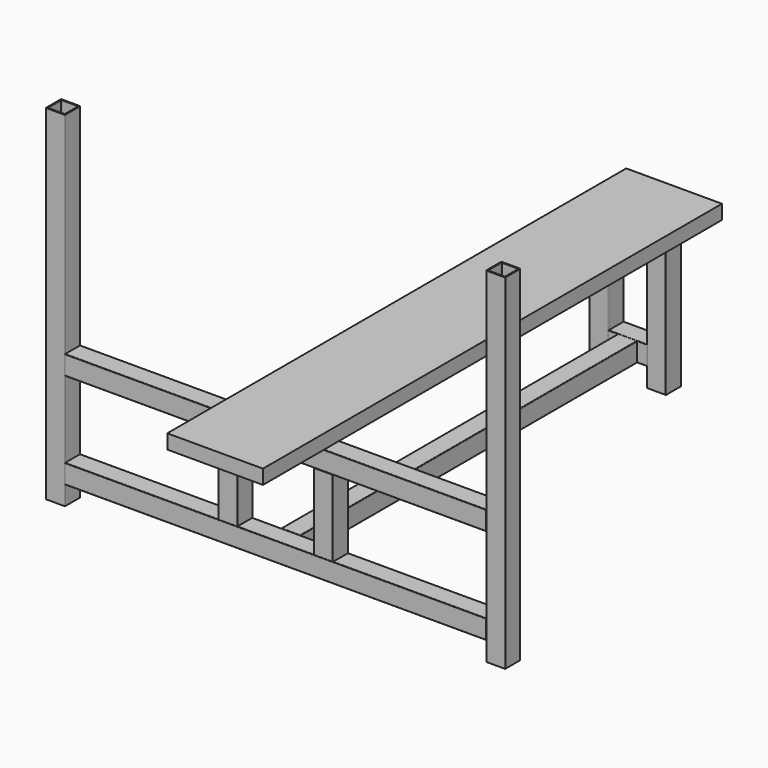
from build123d import *

# Parameters (mm, degrees)
F1_DEPTH       = 1117.6
F3_DEPTH       = 76.2
F4_DEPTH       = 25.4
F6_DEPTH       = 1117.6
F8_DEPTH       = 101.6
F10_DEPTH      = 355.6
F12_DEPTH      = 558.8
F14_DEPTH      = 558.8
F14_DEPTH_BACK = 355.6
F15_W          = 254
F15_H          = 1522.7317948151
F15_W_2        = 48.26
F15_H_2        = 1117.6
F16_DEPTH      = 38.1
F19_DEPTH      = 203.2


with BuildPart() as f1:
    # F0 (on Front) → F1 (new body)
    with BuildSketch(Plane.XZ):
        with BuildLine():
            Line((-24.13, -25.4), (24.13, -25.4))
            ThreePointArc((24.13, -25.4), (25.0280256121, -25.0280256121), (25.4, -24.13))
            Line((25.4, -24.13), (25.4, 24.13))
            ThreePointArc((25.4, 24.13), (25.0280256121, 25.0280256121), (24.13, 25.4))
            Line((24.13, 25.4), (-24.13, 25.4))
            ThreePointArc((-24.13, 25.4), (-25.0280256121, 25.0280256121), (-25.4, 24.13))
            Line((-25.4, 24.13), (-25.4, -24.13))
            ThreePointArc((-25.4, -24.13), (-25.0280256121, -25.0280256121), (-24.13, -25.4))
        make_face()
        with BuildLine():
            Line((-21.082, 22.352), (21.082, 22.352))
            ThreePointArc((21.082, 22.352), (21.9800256121, 21.9800256121), (22.352, 21.082))
            Line((22.352, 21.082), (22.352, -21.082))
            ThreePointArc((22.352, -21.082), (21.9800256121, -21.9800256121), (21.082, -22.352))
            Line((21.082, -22.352), (-21.082, -22.352))
            ThreePointArc((-21.082, -22.352), (-21.9800256121, -21.9800256121), (-22.352, -21.082))
            Line((-22.352, -21.082), (-22.352, 21.082))
            ThreePointArc((-22.352, 21.082), (-21.9800256121, 21.9800256121), (-21.082, 22.352))
        make_face(mode=Mode.SUBTRACT)
    extrude(amount=-F1_DEPTH)


with BuildPart() as f3:
    # F2 (on face) → F3 (new body)
    with BuildSketch(Plane.YZ.offset(25.4)):
        with BuildLine():
            Line((1118.8717948151, -25.4), (1167.1317948151, -25.4))
            ThreePointArc((1167.1317948151, -25.4), (1168.0298204272, -25.0280256121), (1168.4017948151, -24.13))
            Line((1168.4017948151, -24.13), (1168.4017948151, 24.13))
            ThreePointArc((1168.4017948151, 24.13), (1168.0298204272, 25.0280256121), (1167.1317948151, 25.4))
            Line((1167.1317948151, 25.4), (1118.8717948151, 25.4))
            ThreePointArc((1118.8717948151, 25.4), (1117.973769203, 25.0280256121), (1117.6017948151, 24.13))
            Line((1117.6017948151, 24.13), (1117.6017948151, -24.13))
            ThreePointArc((1117.6017948151, -24.13), (1117.973769203, -25.0280256121), (1118.8717948151, -25.4))
        make_face()
        with BuildLine():
            Line((1121.9197948151, 22.352), (1164.0837948151, 22.352))
            ThreePointArc((1164.0837948151, 22.352), (1164.9818204272, 21.9800256121), (1165.3537948151, 21.082))
            Line((1165.3537948151, 21.082), (1165.3537948151, -21.082))
            ThreePointArc((1165.3537948151, -21.082), (1164.9818204272, -21.9800256121), (1164.0837948151, -22.352))
            Line((1164.0837948151, -22.352), (1121.9197948151, -22.352))
            ThreePointArc((1121.9197948151, -22.352), (1121.021769203, -21.9800256121), (1120.6497948151, -21.082))
            Line((1120.6497948151, -21.082), (1120.6497948151, 21.082))
            ThreePointArc((1120.6497948151, 21.082), (1121.021769203, 21.9800256121), (1121.9197948151, 22.352))
        make_face(mode=Mode.SUBTRACT)
    extrude(amount=-F3_DEPTH)

    # F4 (add): a face of the model
    f4_faces = [f3.faces().sort_by_distance(p)[0] for p in [
        (25.4, 1143.0017948151, -24.6815795103),
    ]]
    extrude(f4_faces, amount=F4_DEPTH)


with BuildPart() as f6:
    # F5 (on Front) → F6 (new body)
    with BuildSketch(Plane.XZ):
        with BuildLine():
            Line((-24.13, 228.6), (24.13, 228.6))
            ThreePointArc((24.13, 228.6), (25.0280256121, 228.9719743879), (25.4, 229.87))
            Line((25.4, 229.87), (25.4, 278.13))
            ThreePointArc((25.4, 278.13), (25.0280256121, 279.0280256121), (24.13, 279.4))
            Line((24.13, 279.4), (-24.13, 279.4))
            ThreePointArc((-24.13, 279.4), (-25.0280256121, 279.0280256121), (-25.4, 278.13))
            Line((-25.4, 278.13), (-25.4, 254))
            Line((-25.4, 254), (-25.4, 229.87))
            ThreePointArc((-25.4, 229.87), (-25.0280256121, 228.9719743879), (-24.13, 228.6))
        make_face()
        with BuildLine():
            Line((-22.352, 232.918), (-22.352, 254))
            Line((-22.352, 254), (-22.352, 275.082))
            ThreePointArc((-22.352, 275.082), (-21.9800256121, 275.9800256121), (-21.082, 276.352))
            Line((-21.082, 276.352), (21.082, 276.352))
            ThreePointArc((21.082, 276.352), (21.9800256121, 275.9800256121), (22.352, 275.082))
            Line((22.352, 275.082), (22.352, 232.918))
            ThreePointArc((22.352, 232.918), (21.9800256121, 232.0199743879), (21.082, 231.648))
            Line((21.082, 231.648), (-21.082, 231.648))
            ThreePointArc((-21.082, 231.648), (-21.9800256121, 232.0199743879), (-22.352, 232.918))
        make_face(mode=Mode.SUBTRACT)
    extrude(amount=-F6_DEPTH)


with BuildPart() as f8:
    # F7 (on face) → F8 (new body)
    with BuildSketch(Plane.YZ.offset(50.8)):
        with BuildLine():
            Line((1118.8717948151, 228.6), (1167.1317948151, 228.6))
            ThreePointArc((1167.1317948151, 228.6), (1168.0298204272, 228.9719743879), (1168.4017948151, 229.87))
            Line((1168.4017948151, 229.87), (1168.4017948151, 278.13))
            ThreePointArc((1168.4017948151, 278.13), (1168.0298204272, 279.0280256121), (1167.1317948151, 279.4))
            Line((1167.1317948151, 279.4), (1118.8717948151, 279.4))
            ThreePointArc((1118.8717948151, 279.4), (1117.973769203, 279.0280256121), (1117.6017948151, 278.13))
            Line((1117.6017948151, 278.13), (1117.6017948151, 229.87))
            ThreePointArc((1117.6017948151, 229.87), (1117.973769203, 228.9719743879), (1118.8717948151, 228.6))
        make_face()
        with BuildLine():
            Line((1121.9197948151, 276.352), (1164.0837948151, 276.352))
            ThreePointArc((1164.0837948151, 276.352), (1164.9818204272, 275.9800256121), (1165.3537948151, 275.082))
            Line((1165.3537948151, 275.082), (1165.3537948151, 232.918))
            ThreePointArc((1165.3537948151, 232.918), (1164.9818204272, 232.0199743879), (1164.0837948151, 231.648))
            Line((1164.0837948151, 231.648), (1121.9197948151, 231.648))
            ThreePointArc((1121.9197948151, 231.648), (1121.021769203, 232.0199743879), (1120.6497948151, 232.918))
            Line((1120.6497948151, 232.918), (1120.6497948151, 275.082))
            ThreePointArc((1120.6497948151, 275.082), (1121.021769203, 275.9800256121), (1121.9197948151, 276.352))
        make_face(mode=Mode.SUBTRACT)
    extrude(amount=-F8_DEPTH)


with BuildPart() as f10:
    # F9 (on face) → F10 (new body)
    with BuildSketch(Plane.XY.offset(279.4)):
        with BuildLine():
            Line((-100.33, 1117.6017948151), (-52.07, 1117.6017948151))
            ThreePointArc((-52.07, 1117.6017948151), (-51.1719743879, 1117.973769203), (-50.8, 1118.8717948151))
            Line((-50.8, 1118.8717948151), (-50.8, 1167.1317948151))
            ThreePointArc((-50.8, 1167.1317948151), (-51.1719743879, 1168.0298204272), (-52.07, 1168.4017948151))
            Line((-52.07, 1168.4017948151), (-100.33, 1168.4017948151))
            ThreePointArc((-100.33, 1168.4017948151), (-101.2280256121, 1168.0298204272), (-101.6, 1167.1317948151))
            Line((-101.6, 1167.1317948151), (-101.6, 1118.8717948151))
            ThreePointArc((-101.6, 1118.8717948151), (-101.2280256121, 1117.973769203), (-100.33, 1117.6017948151))
        make_face()
        with BuildLine():
            Line((-97.282, 1165.3537948151), (-55.118, 1165.3537948151))
            ThreePointArc((-55.118, 1165.3537948151), (-54.2199743879, 1164.9818204272), (-53.848, 1164.0837948151))
            Line((-53.848, 1164.0837948151), (-53.848, 1121.9197948151))
            ThreePointArc((-53.848, 1121.9197948151), (-54.2199743879, 1121.021769203), (-55.118, 1120.6497948151))
            Line((-55.118, 1120.6497948151), (-97.282, 1120.6497948151))
            ThreePointArc((-97.282, 1120.6497948151), (-98.1800256121, 1121.021769203), (-98.552, 1121.9197948151))
            Line((-98.552, 1121.9197948151), (-98.552, 1164.0837948151))
            ThreePointArc((-98.552, 1164.0837948151), (-98.1800256121, 1164.9818204272), (-97.282, 1165.3537948151))
        make_face(mode=Mode.SUBTRACT)
    extrude(amount=-F10_DEPTH)


with BuildPart() as f10b:
    # F9 (on face) → F10, piece 2 (new body)
    with BuildSketch(Plane.XY.offset(279.4)):
        with BuildLine():
            Line((50.8, 1118.8717948151), (50.7672481894, 1118.8717948151))
            ThreePointArc((50.7672481894, 1118.8717948151), (51.1392225773, 1117.973769203), (52.0372481894, 1117.6017948151))
            Line((52.0372481894, 1117.6017948151), (100.33, 1117.6017948151))
            ThreePointArc((100.33, 1117.6017948151), (101.2280256121, 1117.973769203), (101.6, 1118.8717948151))
            Line((101.6, 1118.8717948151), (101.6, 1167.1317948151))
            ThreePointArc((101.6, 1167.1317948151), (101.2280256121, 1168.0298204272), (100.33, 1168.4017948151))
            Line((100.33, 1168.4017948151), (52.0372481894, 1168.4017948151))
            ThreePointArc((52.0372481894, 1168.4017948151), (51.1392225773, 1168.0298204272), (50.7672481894, 1167.1317948151))
            Line((50.7672481894, 1167.1317948151), (50.8, 1167.1317948151))
            Line((50.8, 1167.1317948151), (50.8, 1118.8717948151))
        make_face()
        with BuildLine():
            Line((55.0852481894, 1165.3537948151), (97.2492481894, 1165.3537948151))
            ThreePointArc((97.2492481894, 1165.3537948151), (98.1472738016, 1164.9818204272), (98.5192481894, 1164.0837948151))
            Line((98.5192481894, 1164.0837948151), (98.5192481894, 1121.9197948151))
            ThreePointArc((98.5192481894, 1121.9197948151), (98.1472738016, 1121.021769203), (97.2492481894, 1120.6497948151))
            Line((97.2492481894, 1120.6497948151), (55.0852481894, 1120.6497948151))
            ThreePointArc((55.0852481894, 1120.6497948151), (54.1872225773, 1121.021769203), (53.8152481894, 1121.9197948151))
            Line((53.8152481894, 1121.9197948151), (53.8152481894, 1164.0837948151))
            ThreePointArc((53.8152481894, 1164.0837948151), (54.1872225773, 1164.9818204272), (55.0852481894, 1165.3537948151))
        make_face(mode=Mode.SUBTRACT)
    extrude(amount=-F10_DEPTH)


with BuildPart() as f12:
    # F11 (on Right) → F12 (new body, symmetric)
    with BuildSketch(Plane.YZ):
        with BuildLine():
            Line((-3.048, 254), (0, 254))
            Line((0, 254), (0, 278.2719863701))
            ThreePointArc((0, 278.2719863701), (-0.3719743879, 279.1700119822), (-1.27, 279.5419863701))
            Line((-1.27, 279.5419863701), (-49.53, 279.5419863701))
            ThreePointArc((-49.53, 279.5419863701), (-50.4280256121, 279.1700119822), (-50.8, 278.2719863701))
            Line((-50.8, 278.2719863701), (-50.8, 254))
            Line((-50.8, 254), (-47.752, 254))
            Line((-47.752, 254), (-47.752, 275.2239863701))
            ThreePointArc((-47.752, 275.2239863701), (-47.3800256121, 276.1220119822), (-46.482, 276.4939863701))
            Line((-46.482, 276.4939863701), (-4.318, 276.4939863701))
            ThreePointArc((-4.318, 276.4939863701), (-3.4199743879, 276.1220119822), (-3.048, 275.2239863701))
            Line((-3.048, 275.2239863701), (-3.048, 254))
        make_face()
        with BuildLine():
            ThreePointArc((-1.27, 228.7419863701), (-0.3719743879, 229.113960758), (0, 230.0119863701))
            Line((0, 230.0119863701), (0, 254))
            Line((0, 254), (-3.048, 254))
            Line((-3.048, 254), (-3.048, 233.0599863701))
            ThreePointArc((-3.048, 233.0599863701), (-3.4199743879, 232.161960758), (-4.318, 231.7899863701))
            Line((-4.318, 231.7899863701), (-46.482, 231.7899863701))
            ThreePointArc((-46.482, 231.7899863701), (-47.3800256121, 232.161960758), (-47.752, 233.0599863701))
            Line((-47.752, 233.0599863701), (-47.752, 254))
            Line((-47.752, 254), (-50.8, 254))
            Line((-50.8, 254), (-50.8, 230.0119863701))
            ThreePointArc((-50.8, 230.0119863701), (-50.4280256121, 229.113960758), (-49.53, 228.7419863701))
            Line((-49.53, 228.7419863701), (-1.27, 228.7419863701))
        make_face()
    extrude(amount=F12_DEPTH, both=True)


with BuildPart() as f12b:
    # F11 (on Right) → F12, piece 2 (new body, symmetric)
    with BuildSketch(Plane.YZ):
        with BuildLine():
            Line((-3.048, 0), (0, 0))
            Line((0, 0), (0, 24.13))
            ThreePointArc((0, 24.13), (-0.3719743879, 25.0280256121), (-1.27, 25.4))
            Line((-1.27, 25.4), (-49.53, 25.4))
            ThreePointArc((-49.53, 25.4), (-50.4280256121, 25.0280256121), (-50.8, 24.13))
            Line((-50.8, 24.13), (-50.8, 0))
            Line((-50.8, 0), (-47.752, 0))
            Line((-47.752, 0), (-47.752, 21.082))
            ThreePointArc((-47.752, 21.082), (-47.3800256121, 21.9800256121), (-46.482, 22.352))
            Line((-46.482, 22.352), (-4.318, 22.352))
            ThreePointArc((-4.318, 22.352), (-3.4199743879, 21.9800256121), (-3.048, 21.082))
            Line((-3.048, 21.082), (-3.048, 0))
        make_face()
        with BuildLine():
            Line((0, -24.13), (0, 0))
            Line((0, 0), (-3.048, 0))
            Line((-3.048, 0), (-3.048, -21.082))
            ThreePointArc((-3.048, -21.082), (-3.4199743879, -21.9800256121), (-4.318, -22.352))
            Line((-4.318, -22.352), (-46.482, -22.352))
            ThreePointArc((-46.482, -22.352), (-47.3800256121, -21.9800256121), (-47.752, -21.082))
            Line((-47.752, -21.082), (-47.752, 0))
            Line((-47.752, 0), (-50.8, 0))
            Line((-50.8, 0), (-50.8, -24.13))
            ThreePointArc((-50.8, -24.13), (-50.4280256121, -25.0280256121), (-49.53, -25.4))
            Line((-49.53, -25.4), (-1.27, -25.4))
            ThreePointArc((-1.27, -25.4), (-0.3719743879, -25.0280256121), (0, -24.13))
        make_face()
    extrude(amount=F12_DEPTH, both=True)

    # F18 (on offset) → F19 (join)
    with BuildSketch(Plane.XY.offset(25.4)):
        with BuildLine():
            Line((-151.13, -50.8), (-102.87, -50.8))
            ThreePointArc((-102.87, -50.8), (-101.9719743879, -50.4280256121), (-101.6, -49.53))
            Line((-101.6, -49.53), (-101.6, -1.27))
            ThreePointArc((-101.6, -1.27), (-101.9719743879, -0.3719743879), (-102.87, 0))
            Line((-102.87, 0), (-151.13, 0))
            ThreePointArc((-151.13, 0), (-152.0280256121, -0.3719743879), (-152.4, -1.27))
            Line((-152.4, -1.27), (-152.4, -49.53))
            ThreePointArc((-152.4, -49.53), (-152.0280256121, -50.4280256121), (-151.13, -50.8))
        make_face()
        with BuildLine():
            Line((-148.082, -3.0401467811), (-105.918, -3.0401467811))
            ThreePointArc((-105.918, -3.0401467811), (-105.0199743879, -3.412121169), (-104.648, -4.3101467811))
            Line((-104.648, -4.3101467811), (-104.648, -46.4741467811))
            ThreePointArc((-104.648, -46.4741467811), (-105.0199743879, -47.3721723932), (-105.918, -47.7441467811))
            Line((-105.918, -47.7441467811), (-148.082, -47.7441467811))
            ThreePointArc((-148.082, -47.7441467811), (-148.9800256121, -47.3721723932), (-149.352, -46.4741467811))
            Line((-149.352, -46.4741467811), (-149.352, -4.3101467811))
            ThreePointArc((-149.352, -4.3101467811), (-148.9800256121, -3.412121169), (-148.082, -3.0401467811))
        make_face(mode=Mode.SUBTRACT)
        with BuildLine():
            Line((151.13, 0), (127, 0))
            Line((127, 0), (127, -3.3635541331))
            Line((127, -3.3635541331), (148.0588774509, -3.3635541331))
            ThreePointArc((148.0588774509, -3.3635541331), (148.956903063, -3.735528521), (149.3288774509, -4.6335541331))
            Line((149.3288774509, -4.6335541331), (149.3288774509, -25.4))
            Line((149.3288774509, -25.4), (152.4, -25.4))
            Line((152.4, -25.4), (152.4, -1.27))
            ThreePointArc((152.4, -1.27), (152.0280256121, -0.3719743879), (151.13, 0))
        make_face()
        with BuildLine():
            Line((127, -3.3635541331), (127, 0))
            Line((127, 0), (102.87, 0))
            ThreePointArc((102.87, 0), (101.9719743879, -0.3719743879), (101.6, -1.27))
            Line((101.6, -1.27), (101.6, -25.4))
            Line((101.6, -25.4), (104.6248774509, -25.4))
            Line((104.6248774509, -25.4), (104.6248774509, -4.6335541331))
            ThreePointArc((104.6248774509, -4.6335541331), (104.9968518388, -3.735528521), (105.8948774509, -3.3635541331))
            Line((105.8948774509, -3.3635541331), (127, -3.3635541331))
        make_face()
        with BuildLine():
            Line((127, -50.8), (127, -48.0675541331))
            Line((127, -48.0675541331), (105.8948774509, -48.0675541331))
            ThreePointArc((105.8948774509, -48.0675541331), (104.9968518388, -47.6955797452), (104.6248774509, -46.7975541331))
            Line((104.6248774509, -46.7975541331), (104.6248774509, -25.4))
            Line((104.6248774509, -25.4), (101.6, -25.4))
            Line((101.6, -25.4), (101.6, -49.53))
            ThreePointArc((101.6, -49.53), (101.9719743879, -50.4280256121), (102.87, -50.8))
            Line((102.87, -50.8), (127, -50.8))
        make_face()
        with BuildLine():
            Line((148.0588774509, -48.0675541331), (127, -48.0675541331))
            Line((127, -48.0675541331), (127, -50.8))
            Line((127, -50.8), (151.13, -50.8))
            ThreePointArc((151.13, -50.8), (152.0280256121, -50.4280256121), (152.4, -49.53))
            Line((152.4, -49.53), (152.4, -25.4))
            Line((152.4, -25.4), (149.3288774509, -25.4))
            Line((149.3288774509, -25.4), (149.3288774509, -46.7975541331))
            ThreePointArc((149.3288774509, -46.7975541331), (148.956903063, -47.6955797452), (148.0588774509, -48.0675541331))
        make_face()
    extrude(amount=F19_DEPTH)


with BuildPart() as f14:
    # F13 (on face) → F14 (new body, two sides)
    with BuildSketch(Plane.XY.offset(279.5419863701)) as f14_sk:
        with BuildLine():
            Line((-561.848, -25.4), (-558.8, -25.4))
            Line((-558.8, -25.4), (-558.8, -1.27))
            ThreePointArc((-558.8, -1.27), (-559.1719743879, -0.3719743879), (-560.07, 0))
            Line((-560.07, 0), (-608.33, 0))
            ThreePointArc((-608.33, 0), (-609.2280256121, -0.3719743879), (-609.6, -1.27))
            Line((-609.6, -1.27), (-609.6, -25.4))
            Line((-609.6, -25.4), (-606.552, -25.4))
            Line((-606.552, -25.4), (-606.552, -4.318))
            ThreePointArc((-606.552, -4.318), (-606.1800256121, -3.4199743879), (-605.282, -3.048))
            Line((-605.282, -3.048), (-563.118, -3.048))
            ThreePointArc((-563.118, -3.048), (-562.2199743879, -3.4199743879), (-561.848, -4.318))
            Line((-561.848, -4.318), (-561.848, -25.4))
        make_face()
        with BuildLine():
            Line((-558.8, -49.53), (-558.8, -25.4))
            Line((-558.8, -25.4), (-561.848, -25.4))
            Line((-561.848, -25.4), (-561.848, -46.482))
            ThreePointArc((-561.848, -46.482), (-562.2199743879, -47.3800256121), (-563.118, -47.752))
            Line((-563.118, -47.752), (-605.282, -47.752))
            ThreePointArc((-605.282, -47.752), (-606.1800256121, -47.3800256121), (-606.552, -46.482))
            Line((-606.552, -46.482), (-606.552, -25.4))
            Line((-606.552, -25.4), (-609.6, -25.4))
            Line((-609.6, -25.4), (-609.6, -49.53))
            ThreePointArc((-609.6, -49.53), (-609.2280256121, -50.4280256121), (-608.33, -50.8))
            Line((-608.33, -50.8), (-560.07, -50.8))
            ThreePointArc((-560.07, -50.8), (-559.1719743879, -50.4280256121), (-558.8, -49.53))
        make_face()
    extrude(amount=F14_DEPTH)
    extrude(f14_sk.sketch, amount=-F14_DEPTH_BACK)


with BuildPart() as f14b:
    # F13 (on face) → F14, piece 2 (new body, two sides)
    with BuildSketch(Plane.XY.offset(279.5419863701)) as f14_2_sk:
        with BuildLine():
            ThreePointArc((560.07, 0), (559.1719743879, -0.3719743879), (558.8, -1.27))
            Line((558.8, -1.27), (558.8, -25.4))
            Line((558.8, -25.4), (561.848, -25.4))
            Line((561.848, -25.4), (561.848, -4.318))
            ThreePointArc((561.848, -4.318), (562.2199743879, -3.4199743879), (563.118, -3.048))
            Line((563.118, -3.048), (605.282, -3.048))
            ThreePointArc((605.282, -3.048), (606.1800256121, -3.4199743879), (606.552, -4.318))
            Line((606.552, -4.318), (606.552, -25.4))
            Line((606.552, -25.4), (609.6, -25.4))
            Line((609.6, -25.4), (609.6, -1.27))
            ThreePointArc((609.6, -1.27), (609.2280256121, -0.3719743879), (608.33, 0))
            Line((608.33, 0), (560.07, 0))
        make_face()
        with BuildLine():
            Line((558.8, -25.4), (558.8, -49.53))
            ThreePointArc((558.8, -49.53), (559.1719743879, -50.4280256121), (560.07, -50.8))
            Line((560.07, -50.8), (608.33, -50.8))
            ThreePointArc((608.33, -50.8), (609.2280256121, -50.4280256121), (609.6, -49.53))
            Line((609.6, -49.53), (609.6, -25.4))
            Line((609.6, -25.4), (606.552, -25.4))
            Line((606.552, -25.4), (606.552, -46.482))
            ThreePointArc((606.552, -46.482), (606.1800256121, -47.3800256121), (605.282, -47.752))
            Line((605.282, -47.752), (563.118, -47.752))
            ThreePointArc((563.118, -47.752), (562.2199743879, -47.3800256121), (561.848, -46.482))
            Line((561.848, -46.482), (561.848, -25.4))
            Line((561.848, -25.4), (558.8, -25.4))
        make_face()
    extrude(amount=F14_DEPTH)
    extrude(f14_2_sk.sketch, amount=-F14_DEPTH_BACK)


with BuildPart() as f16:
    # F15 (on face) → F16 (new body)
    with BuildSketch(Plane.XY.offset(279.4)):
        with Locations((1.27, 508.6358974075)):
            Rectangle(F15_W, F15_H)
        with Locations((0, 558.8)):
            Rectangle(F15_W_2, F15_H_2, mode=Mode.SUBTRACT)
        with Locations((0, 558.8)):
            Rectangle(F15_W_2, F15_H_2)
    extrude(amount=F16_DEPTH)


solid = Compound([f1.part, f3.part, f6.part, f8.part, f10.part, f10b.part, f12.part, f12b.part, f14.part, f14b.part, f16.part])
